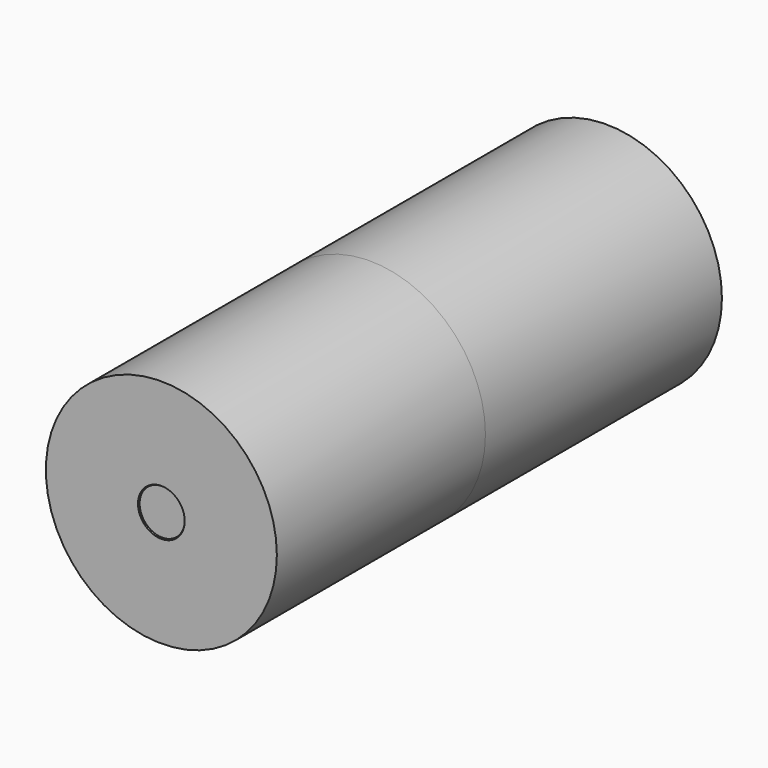
from build123d import *

# Parameters (mm, degrees)
F0_R          = 9.3386077144
F1_DEPTH      = 23.9015780389
F1_DEPTH_BACK = 21.0829656571
F2_R          = 1.8900761145
F3_DEPTH      = 18.9224872738
F4_R          = 1.8282157513
F5_DEPTH      = 18.8347734511


with BuildPart() as f1:
    # F0 (on Front) → F1 (new body, two sides)
    with BuildSketch(Plane.XZ) as f1_sk:
        Circle(F0_R)
    extrude(amount=-F1_DEPTH)
    extrude(f1_sk.sketch, amount=F1_DEPTH_BACK)

    # F2 (on face) → F3 (cut)
    with BuildSketch(Plane.XZ.offset(21.0829656571)):
        Circle(F2_R)
    extrude(amount=-F3_DEPTH, mode=Mode.SUBTRACT)


with BuildPart() as f5:
    # F4 (on face) → F5 (new body)
    with BuildSketch(Plane.XZ.offset(2.1604783833)):
        Circle(F4_R)
    extrude(amount=F5_DEPTH)


solid = Compound([f1.part, f5.part])
